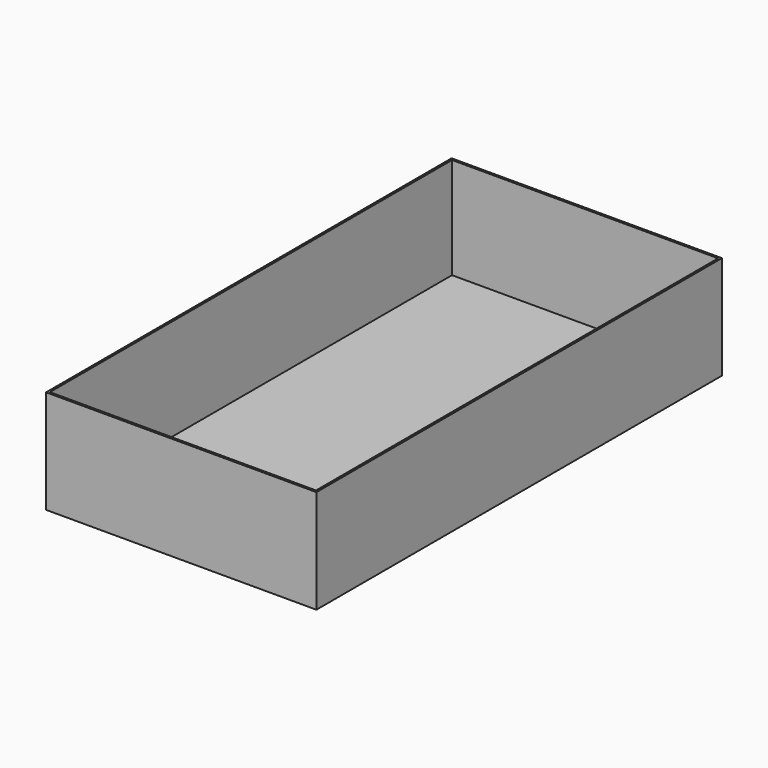
from build123d import *

# Parameters (mm, degrees)
F0_W     = 406.4
F0_H     = 762
F1_DEPTH = 3.175
F2_W     = 406.4
F2_H     = 3.175
F3_DEPTH = 152.4
F4_W     = 3.175
F4_H     = 758.825
F5_DEPTH = 152.4
F6_W     = 403.225
F6_H     = 3.175
F7_DEPTH = 152.4
F8_W     = 3.175
F8_H     = 755.65
F9_DEPTH = 152.4


with BuildPart() as f1:
    # F0 (on Top) → F1 (new body)
    with BuildSketch(Plane.XY):
        Rectangle(F0_W, F0_H)
    extrude(amount=F1_DEPTH)

    # F2 (on face) → F3 (join)
    with BuildSketch(Plane.XY.offset(3.175)):
        with Locations((0, 379.4125)):
            Rectangle(F2_W, F2_H)
    extrude(amount=F3_DEPTH)

    # F4 (on face) → F5 (join)
    with BuildSketch(Plane.XY.offset(3.175)):
        with Locations((201.6125, -1.5875)):
            Rectangle(F4_W, F4_H)
    extrude(amount=F5_DEPTH)

    # F6 (on face) → F7 (join)
    with BuildSketch(Plane.XY.offset(3.175)):
        with Locations((-1.5875, -379.4125)):
            Rectangle(F6_W, F6_H)
    extrude(amount=F7_DEPTH)

    # F8 (on face) → F9 (join)
    with BuildSketch(Plane.XY.offset(3.175)):
        with Locations((-201.6125, 0)):
            Rectangle(F8_W, F8_H)
    extrude(amount=F9_DEPTH)


solid = f1.part
